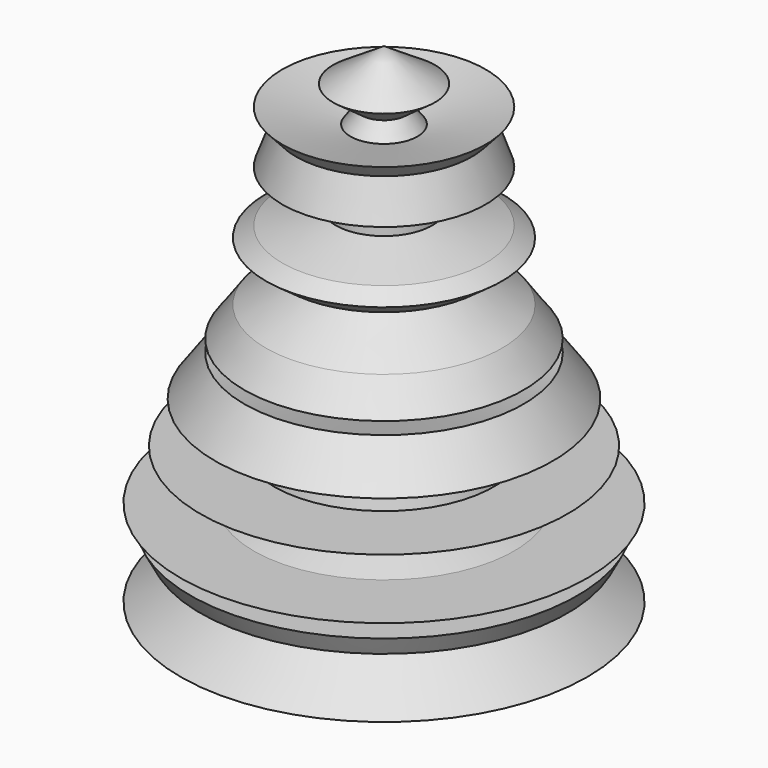
from build123d import *

# Parameters (mm, degrees)
F2_R     = 8.39435
F3_DEPTH = 83.566


with BuildPart() as f1:
    # F0 (on Front) → F1 (revolve)
    with BuildSketch(Plane.XZ):
        Polygon((0, -62.911093), (0, 55.813428), (0, 64.265032), (-13.227459, 55.658503), (-5.867492, 50.328873), (-8.710766, 46.402446), (-26.448477, 50.328873), (-22.902868, 46.402446), (-26.448477, 36.60981), (-19.357258, 46.402446), (-5.834091, 36.60981), (-12.582218, 32.219099), (-12.582218, 27.319454), (-26.448477, 23.196931), (-30.691273, 20.436329), (-25.191407, 16.453668), (-5.834091, 22.906089), (-5.834091, 5.090729), (-13.227459, 16.453668), (-30.691273, 5.090729), (-36.310715, -2.669454), (-23.873951, -2.669454), (-27.56034, 0), (-23.873951, 5.090729), (-15.485807, -0.983443), (-10.517438, -4.581228), (-23.873951, -9.033387), (-36.310715, -5.882843), (-43.93739, -16.41492), (-36.310715, -13.872702), (-33.875201, -21.179264), (-28.584243, -13.872702), (-8.710766, -13.872702), (-19.357258, -23.440102), (-26.777571, -18.066773), (-28.584243, -27.298804), (-47.747903, -27.298804), (-33.875201, -34.159887), (-10.517438, -27.298804), (-15.485807, -34.159887), (-33.875201, -40.289668), (-52.90984, -40.289668), (-43.39252, -45.14796), (-50.328871, -45.14796), (-47.747903, -50.006252), (-37.424032, -44.521693), (-19.357258, -49.199698), (-8.710766, -44.521693), (-15.485807, -53.877704), (-33.875201, -50.006252), (-52.90984, -62.911093), (-28.584243, -60.394644), (-26.777571, -65.814674), (-10.517438, -60.394644), (-8.710766, -65.814674), align=None)
    revolve(axis=Axis((0, 0, -3.548833), (0, 0, -1)))

    # F2 (on Top) → F3 (join)
    with BuildSketch(Plane.XY):
        Circle(F2_R)
    extrude(amount=-F3_DEPTH)


solid = f1.part
